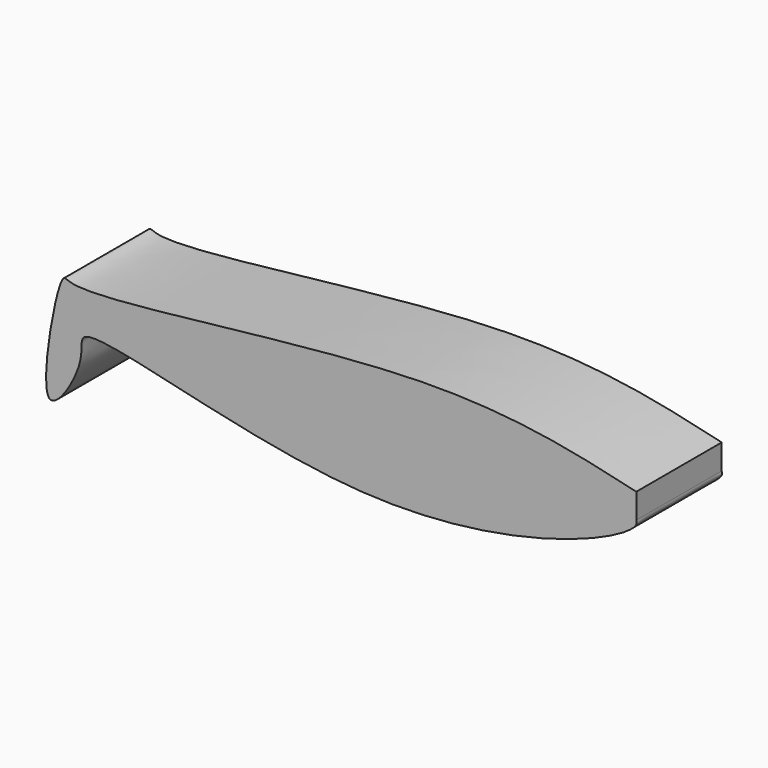
from build123d import *

# Parameters (mm, degrees)
F1_DEPTH = 10.16


with BuildPart() as f1:
    # F0 (on Front) → F1 (new body)
    with BuildSketch(Plane.XZ):
        with BuildLine():
            Line((0, -2.3929104209), (0, 0))
            add(Edge.make_bspline(
                [(0, 0), (-6.0509277076, 1.4227937849), (-19.4132482348, 4.5648006514), (-53.3516074354, -1.273159087), (-54.9085678309, 1.1693404255), (-57.8201754865, -15.0980604385), (-52.1055098203, -6.2085176135), (-54.2307609941, -1.8077116515), (-25.2451931751, -12.0552794835), (-3.3860327388, -5.5743776251), (0.1306303921, -2.912678926), (-0.0072399185, -2.4668429017), (-0.0015057701, -2.412039472), (0, -2.3929104209)],
                knots=[0, 0, 0, 0, 0.1518790099, 0.3353963246, 0.3662736086, 0.4710101729, 0.5432398626, 0.5926866792, 0.7591141635, 0.9191629568, 0.9752430284, 0.9917478344, 1, 1, 1, 1], degree=3))
        make_face()
    extrude(amount=-F1_DEPTH)


solid = f1.part
